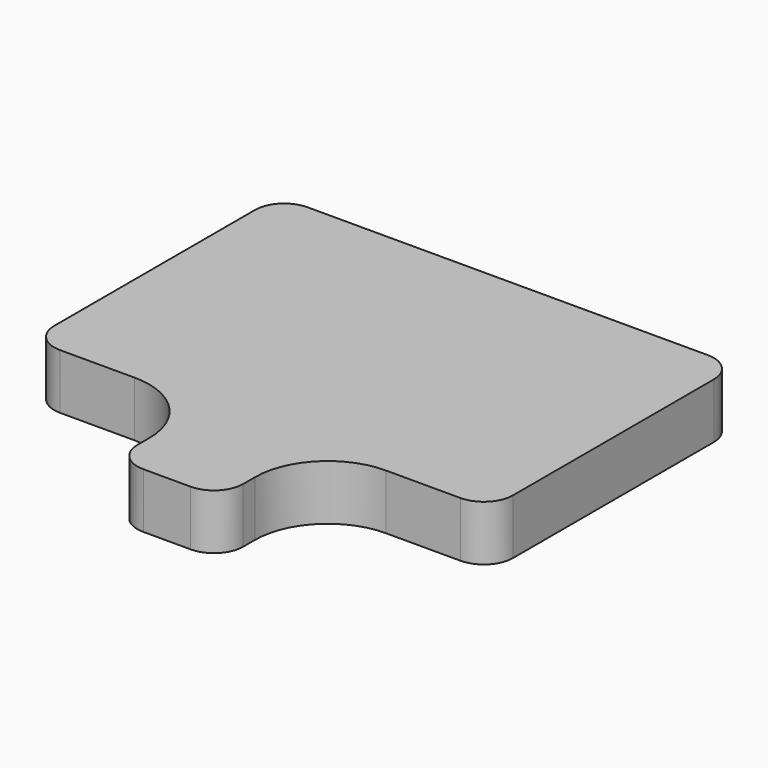
from build123d import *

# Parameters (mm, degrees)
F1_DEPTH = 12
F2_R     = 6.35


with BuildPart() as f1:
    # F0 (on Top) → F1 (new body)
    with BuildSketch(Plane.XY):
        with BuildLine():
            Line((49.847, -20.94), (49.847, 46.283))
            Line((49.847, 46.283), (-49.847, 46.283))
            Line((-49.847, 46.283), (-49.847, -20.94))
            Line((-49.847, -20.94), (-27.274, -20.94))
            ThreePointArc((-27.274, -20.94), (-16.118683, -25.560683), (-11.498, -36.716))
            Line((-11.498, -36.716), (-11.498, -46.283))
            Line((-11.498, -46.283), (11.498, -46.283))
            Line((11.498, -46.283), (11.498, -36.716))
            ThreePointArc((11.498, -36.716), (16.118683, -25.560683), (27.274, -20.94))
            Line((27.274, -20.94), (49.847, -20.94))
        make_face()
    extrude(amount=F1_DEPTH)

    # F2
    f2_edges = [f1.edges().sort_by_distance(p)[0] for p in [
        (-49.847, 46.283, 6),
        (-49.847, -20.94, 6),
        (-11.498, -46.283, 6),
        (11.498, -46.283, 6),
        (49.847, -20.94, 6),
        (49.847, 46.283, 6),
    ]]
    fillet(f2_edges, radius=F2_R)


solid = f1.part
